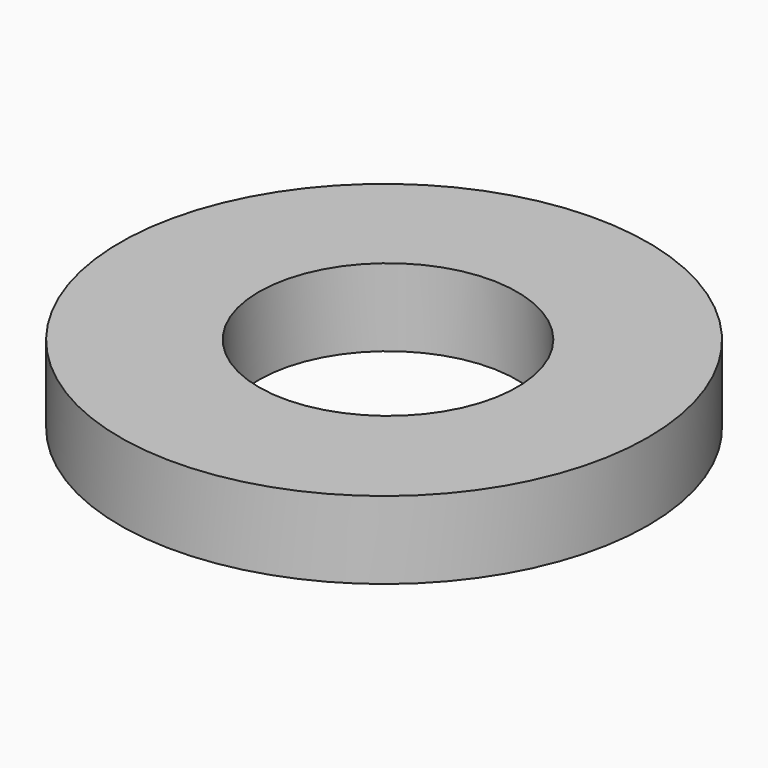
from build123d import *

# Parameters (mm, degrees)
F0_R     = 12.980007
F1_DEPTH = 3.81
F3_D     = 12.7
F3_DEPTH = 12.7


with BuildPart() as f1:
    # F0 (on Top) → F1 (new body)
    with BuildSketch(Plane.XY):
        Circle(F0_R)
    extrude(amount=-F1_DEPTH)

    # F3
    with Locations(Plane.XY):
        with Locations((0.095758, 0.121543)):
            Hole(F3_D / 2, depth=F3_DEPTH)


solid = f1.part
